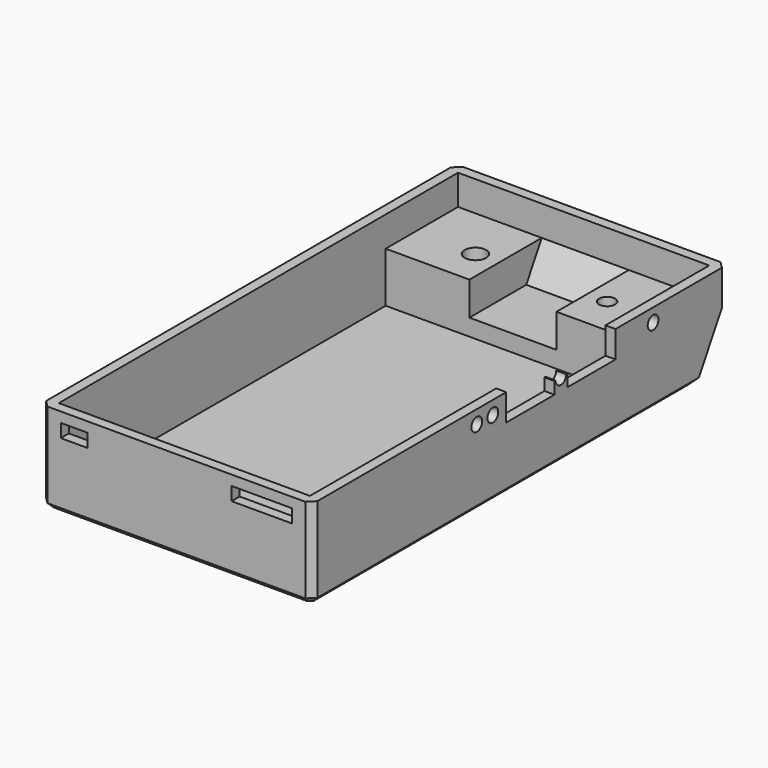
from build123d import *

# Parameters (mm, degrees)
PAD_DEPTH          = 13.5
SKETCH001_W        = 37.5
SKETCH001_H        = 61
POCKET_DEPTH       = 12
SKETCH002_W        = 13
SKETCH002_H        = 13.5
POCKET012020_DEPTH = 9.5
SKETCH004_W        = 12
SKETCH004_H        = 13.5
SKETCH004_W_2      = 12.5
POCKET012021_DEPTH = 4.5
SKETCH003_R        = 1.6
SKETCH003_R_2      = 1.2
POCKET012022_DEPTH = 9.001
SKETCH006_R        = 2.5
POCKET012023_DEPTH = 3
SKETCH007_R        = 1
POCKET012024_DEPTH = 1.5
POCKET012025_DEPTH = 40.501
PAD016_DEPTH       = 13
SKETCH019_W        = 9
SKETCH019_H        = 2
SKETCH019_W_2      = 4
POCKET012026_DEPTH = 1.501
POCKET012027_DEPTH = 9
POCKET012028_DEPTH = 4
CHAMFER_SIZE       = 0.8
FILLET001_R        = 0.8


with BuildPart() as part:
    # Sketch → Pad (new body)
    with BuildSketch(Plane.XY):
        Polygon((-19.25, 38.75), (19.25, 38.75), (20.25, 37.75), (20.25, -37.75), (19.25, -38.75), (-19.25, -38.75), (-20.25, -37.75), (-20.25, 37.75), align=None)
    extrude(amount=PAD_DEPTH)

    # Sketch001 → Pocket (cut)
    with BuildSketch(Plane.XY.offset(13.5)):
        with Locations((0, -6.75)):
            Rectangle(SKETCH001_W, SKETCH001_H)
    extrude(amount=-POCKET_DEPTH, mode=Mode.SUBTRACT)

    # Sketch002 → Pocket012020 (cut)
    with BuildSketch(Plane.XY.offset(13.5)):
        with Locations((0.25, 30.5)):
            Rectangle(SKETCH002_W, SKETCH002_H)
    extrude(amount=-POCKET012020_DEPTH, mode=Mode.SUBTRACT)

    # Sketch004 → Pocket012021 (cut)
    with BuildSketch(Plane.XY.offset(13.5)):
        with Locations((12.75, 30.5)):
            Rectangle(SKETCH004_W, SKETCH004_H)
        with Locations((-12.5, 30.5)):
            Rectangle(SKETCH004_W_2, SKETCH004_H)
    extrude(amount=-POCKET012021_DEPTH, mode=Mode.SUBTRACT)

    # Sketch003 → Pocket012022 (cut, through all)
    with BuildSketch(Plane.XY.offset(9)):
        with Locations((16.75, 29.25)):
            Circle(SKETCH003_R)
        with Locations((-9.75, 29.25)):
            Circle(SKETCH003_R)
        with Locations((9.75, 29.45)):
            Circle(SKETCH003_R_2)
    extrude(amount=-POCKET012022_DEPTH, mode=Mode.SUBTRACT)

    # Sketch006 → Pocket012023 (cut)
    with BuildSketch(Plane(origin=(0, 0, 0), x_dir=(1, 0, 0), z_dir=(0, 0, -1))):
        with Locations((16.75, -29.25)):
            Circle(SKETCH006_R)
        with Locations((-9.75, -29.25)):
            Circle(SKETCH006_R)
    extrude(amount=-POCKET012023_DEPTH, mode=Mode.SUBTRACT)

    # Sketch007 → Pocket012024 (cut)
    with BuildSketch(Plane.YZ.offset(20.25)):
        with Locations((24.9, 11.5)):
            Circle(SKETCH007_R)
        with Locations((-5, 11.5)):
            Circle(SKETCH007_R)
        with Locations((-8, 11.5)):
            Circle(SKETCH007_R)
        with BuildLine():
            Line((17.9, 13.5), (17.9, 9.5))
            Line((17.9, 9.5), (8.9, 9.5))
            Line((8.9, 11.3), (8.9, 9.5))
            Line((8.9, 11.3), (8.7, 11.3))
            ThreePointArc((6.7, 11.3), (7.7, 10.3), (8.7, 11.3))
            Line((6.5, 11.3), (6.7, 11.3))
            Line((6.5, 11.3), (6.5, 9.5))
            Line((-2.5, 9.5), (6.5, 9.5))
            Line((-2.5, 9.5), (-2.5, 13.5))
            Line((17.9, 13.5), (-2.5, 13.5))
        make_face()
    extrude(amount=-POCKET012024_DEPTH, mode=Mode.SUBTRACT)

    # Sketch017 → Pocket012025 (cut, through all)
    with BuildSketch(Plane.YZ.offset(20.25)):
        Polygon((38.773503, 10), (33, 0), (38.773503, 0), align=None)
    extrude(amount=-POCKET012025_DEPTH, mode=Mode.SUBTRACT)

    # Sketch018 → Pad016 (new body)
    with BuildSketch(Plane.YZ.offset(-6.25)):
        Polygon((37.25, 9), (37.25, 7.361216), (35.309401, 4), (34.363249, 4), align=None)
    extrude(amount=PAD016_DEPTH)

    # Sketch019 → Pocket012026 (cut, through all)
    with BuildSketch(Plane(origin=(0, -37.25, 0), x_dir=(-1, 0, 0), z_dir=(0, 1, 0))):
        with Locations((-12.75, 11)):
            Rectangle(SKETCH019_W, SKETCH019_H)
        with Locations((15.25, 11)):
            Rectangle(SKETCH019_W_2, SKETCH019_H)
    extrude(amount=-POCKET012026_DEPTH, mode=Mode.SUBTRACT)

    # Sketch022 → Pocket012027 (cut)
    with BuildSketch(Plane(origin=(17.25, 0, 0), x_dir=(0, -1, 0), z_dir=(-1, 0, 0))):
        Polygon((38.75, 12), (37.25, 13.5), (37.25, 12), align=None)
    extrude(amount=POCKET012027_DEPTH, mode=Mode.SUBTRACT)

    # Sketch039 → Pocket012028 (cut)
    with BuildSketch(Plane(origin=(-13.25, 0, 0), x_dir=(0, -1, 0), z_dir=(-1, 0, 0))):
        Polygon((38.75, 12), (37.25, 12), (37.25, 13.5), align=None)
    extrude(amount=POCKET012028_DEPTH, mode=Mode.SUBTRACT)

    # Chamfer
    chamfer_edges = [part.edges().sort_by_distance(p)[0] for p in [
        (0, -38.75, 0),
        (-19.75, -38.25, 0),
        (-20.25, -2.375, 0),
        (0, 33, 0),
        (20.25, -2.375, 0),
        (19.75, -38.25, 0),
    ]]
    chamfer(chamfer_edges, length=CHAMFER_SIZE)

    # Fillet001
    fillet001_edges = [part.edges().sort_by_distance(p)[0] for p in [
        (14.25, 29.25, 3),
        (-12.25, 29.25, 3),
    ]]
    fillet(fillet001_edges, radius=FILLET001_R)


solid = part.part
